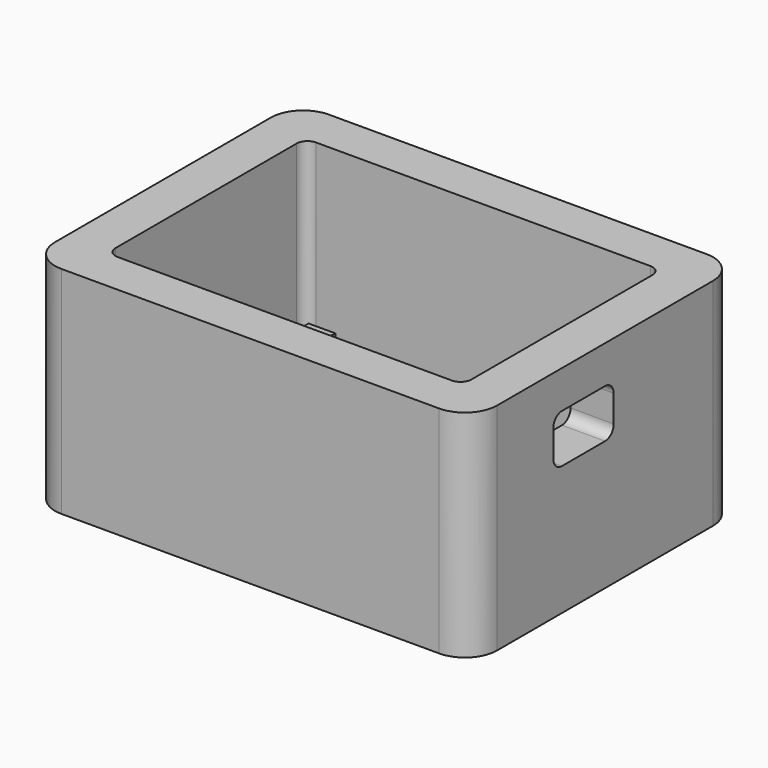
from build123d import *

# Parameters (mm, degrees)
PAD_DEPTH               = 40
POCKET_DEPTH            = 36.001
SKETCH002_R             = 1
PAD001_DEPTH            = 8
SKETCH002_MIRRORED_2_R  = 1
PAD001_MIRRORED_2_DEPTH = 8
POCKET001_DEPTH         = 41.001
POCKET002_DEPTH         = 5


with BuildPart() as part:
    # Sketch → Pad (new body)
    with BuildSketch(Plane.XY.offset(-4)):
        with BuildLine():
            Line((-35, 31), (35, 31))
            ThreePointArc((41, 25), (39.242641, 29.242641), (35, 31))
            Line((41, 25), (41, -25))
            ThreePointArc((35, -31), (39.242641, -29.242641), (41, -25))
            Line((35, -31), (-35, -31))
            ThreePointArc((-41, -25), (-39.242641, -29.242641), (-35, -31))
            Line((-41, -25), (-41, 25))
            ThreePointArc((-35, 31), (-39.242641, 29.242641), (-41, 25))
        make_face()
    extrude(amount=PAD_DEPTH)

    # Sketch001 → Pocket (cut, through all)
    with BuildSketch(Plane.XY):
        with BuildLine():
            Line((-31, 23), (31, 23))
            ThreePointArc((33, 21), (32.414214, 22.414214), (31, 23))
            Line((33, 21), (33, -21))
            ThreePointArc((31, -23), (32.414214, -22.414214), (33, -21))
            Line((31, -23), (-31, -23))
            ThreePointArc((-33, -21), (-32.414214, -22.414214), (-31, -23))
            Line((-33, -21), (-33, 21))
            ThreePointArc((-31, 23), (-32.414214, 22.414214), (-33, 21))
        make_face()
    extrude(amount=POCKET_DEPTH, mode=Mode.SUBTRACT)

    # Sketch002 → Pad001 (join)
    with BuildSketch(Plane.XY):
        with BuildLine():
            Line((-30, 20), (-25, 20))
            ThreePointArc((-30, 15), (-26.464466, 16.464466), (-25, 20))
            Line((-30, 20), (-30, 15))
        make_face()
        with Locations((-28, 18)):
            Circle(SKETCH002_R, mode=Mode.SUBTRACT)
    pad001 = extrude(amount=PAD001_DEPTH)

    # Sketch002 Mirrored 2 → Pad001 Mirrored 2 (add)
    with BuildSketch(Plane(origin=(0, 0, 0), x_dir=(-1, 0, 0), z_dir=(0, 0, -1))):
        with BuildLine():
            Line((-30, 20), (-25, 20))
            ThreePointArc((-30, 15), (-26.464466, 16.464466), (-25, 20))
            Line((-30, 20), (-30, 15))
        make_face()
        with Locations((-28, 18)):
            Circle(SKETCH002_MIRRORED_2_R, mode=Mode.SUBTRACT)
    pad001_mirrored_2 = extrude(amount=-PAD001_MIRRORED_2_DEPTH)

    # Mirrored001: Pad001, Pad001 Mirrored 2 across Sketch002 H_Axis
    add(pad001.mirror(Plane.ZX))
    add(pad001_mirrored_2.mirror(Plane.ZX))

    # Sketch003 → Pocket001 (cut, through all)
    with BuildSketch(Plane.YZ):
        with BuildLine():
            Line((0, 20), (-10, 20))
            ThreePointArc((-12, 22), (-11.414214, 20.585786), (-10, 20))
            Line((-12, 22), (-12, 27))
            ThreePointArc((-10, 29), (-11.414214, 28.414214), (-12, 27))
            Line((-10, 29), (0, 29))
            ThreePointArc((2, 27), (1.414214, 28.414214), (0, 29))
            Line((2, 27), (2, 22))
            ThreePointArc((0, 20), (1.414214, 20.585786), (2, 22))
        make_face()
    extrude(amount=POCKET001_DEPTH, mode=Mode.SUBTRACT)

    # Sketch004 (on Face7 of Pocket001) → Pocket002 (cut)
    with BuildSketch(Plane(origin=(0, 31, 0), x_dir=(-1, 0, 0), z_dir=(0, 1, 0))):
        with BuildLine():
            Line((-22, 25), (-14, 25))
            ThreePointArc((-12, 23), (-12.585786, 24.414214), (-14, 25))
            Line((-12, 23), (-12, 10))
            Line((-12, 10), (-24, 10))
            Line((-24, 10), (-24, 23))
            ThreePointArc((-22, 25), (-23.414214, 24.414214), (-24, 23))
        make_face()
        with BuildLine():
            Line((2, 16), (13, 16))
            ThreePointArc((15, 14), (14.414214, 15.414214), (13, 16))
            Line((15, 14), (15, 10))
            Line((15, 10), (0, 10))
            Line((0, 10), (0, 14))
            ThreePointArc((2, 16), (0.585786, 15.414214), (0, 14))
        make_face()
    extrude(amount=-POCKET002_DEPTH, mode=Mode.SUBTRACT)


solid = part.part
